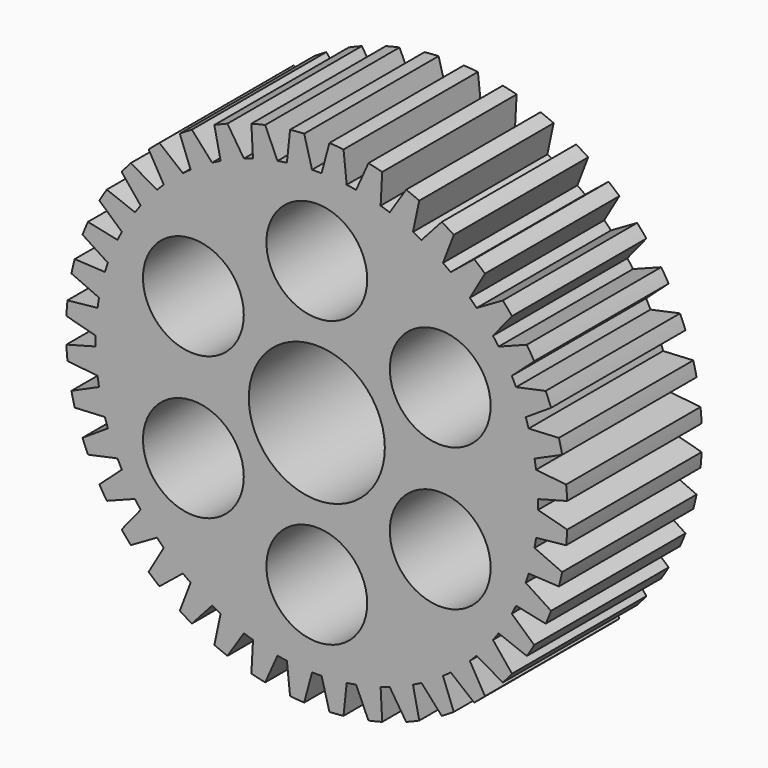
from build123d import *

# Parameters (mm, degrees)
F1_DEPTH = 10
F2_R     = 4.05
F3_DEPTH = 25
F4_R     = 3
F5_DEPTH = 25


with BuildPart() as f1:
    # F0 (on Front) → F1 (new body)
    with BuildSketch(Plane.XZ):
        with BuildLine():
            Line((0.75, 21.737065), (0.284014, 19.997983))
            ThreePointArc((0.284014, 19.997983), (0, 20.001046), (-0.284014, 19.997983))
            Line((-0.284014, 19.997983), (-0.75, 21.737065))
            ThreePointArc((-0.75, 21.737065), (-1.171065, 21.709909), (-1.591194, 21.670862))
            Line((-1.591194, 21.670862), (-1.77939, 19.880295))
            ThreePointArc((-1.77939, 19.880295), (-2.060387, 19.83889), (-2.340426, 19.791435))
            Line((-2.340426, 19.791435), (-3.072727, 21.43621))
            ThreePointArc((-3.072727, 21.43621), (-3.48436, 21.343519), (-3.893208, 21.23923))
            Line((-3.893208, 21.23923), (-3.798981, 19.441267))
            ThreePointArc((-3.798981, 19.441267), (-4.070041, 19.356415), (-4.339208, 19.265737))
            Line((-4.339208, 19.265737), (-5.319793, 20.775704))
            ThreePointArc((-5.319793, 20.775704), (-5.711858, 20.619761), (-6.099358, 20.452798))
            Line((-6.099358, 20.452798), (-5.725028, 18.691712))
            ThreePointArc((-5.725028, 18.691712), (-5.979477, 18.565501), (-6.231145, 18.433832))
            Line((-6.231145, 18.433832), (-7.435868, 19.771812))
            ThreePointArc((-7.435868, 19.771812), (-7.798711, 19.556456), (-8.155322, 19.33093))
            Line((-8.155322, 19.33093), (-7.510105, 17.650084))
            ThreePointArc((-7.510105, 17.650084), (-7.741678, 17.485622), (-7.96965, 17.316205))
            Line((-7.96965, 17.316205), (-9.368847, 18.449252))
            ThreePointArc((-9.368847, 18.449252), (-9.693534, 18.179787), (-10.010474, 17.901251))
            Line((-10.010474, 17.901251), (-9.110259, 16.342033))
            ThreePointArc((-9.110259, 16.342033), (-9.313253, 16.14337), (-9.511916, 15.940376))
            Line((-9.511916, 15.940376), (-11.071134, 16.840591))
            ThreePointArc((-11.071134, 16.840591), (-11.34967, 16.523651), (-11.619136, 16.198964))
            Line((-11.619136, 16.198964), (-10.486088, 14.799767))
            ThreePointArc((-10.486088, 14.799767), (-10.655506, 14.571795), (-10.819967, 14.340222))
            Line((-10.819967, 14.340222), (-12.500814, 14.985438))
            ThreePointArc((-12.500814, 14.985438), (-12.72634, 14.628828), (-12.941695, 14.265985))
            Line((-12.941695, 14.265985), (-11.603715, 13.061262))
            ThreePointArc((-11.603715, 13.061262), (-11.735384, 12.809593), (-11.861595, 12.555144))
            Line((-11.861595, 12.555144), (-13.622681, 12.929475))
            ThreePointArc((-13.622681, 12.929475), (-13.789644, 12.541974), (-13.945588, 12.149909))
            Line((-13.945588, 12.149909), (-12.43562, 11.169325))
            ThreePointArc((-12.43562, 11.169325), (-12.526298, 10.900158), (-12.611151, 10.629097))
            Line((-12.611151, 10.629097), (-14.409113, 10.723325))
            ThreePointArc((-14.409113, 10.723325), (-14.513402, 10.314476), (-14.606093, 9.902843))
            Line((-14.606093, 9.902843), (-12.961319, 9.170543))
            ThreePointArc((-12.961319, 9.170543), (-13.008773, 8.890504), (-13.050178, 8.609507))
            Line((-13.050178, 8.609507), (-14.840745, 8.421311))
            ThreePointArc((-14.840745, 8.421311), (-14.879792, 8.001182), (-14.906948, 7.580117))
            Line((-14.906948, 7.580117), (-13.167867, 7.114131))
            ThreePointArc((-13.167867, 7.114131), (-13.170929, 6.830117), (-13.167867, 6.546102))
            Line((-13.167867, 6.546102), (-14.906948, 6.080117))
            ThreePointArc((-14.906948, 6.080117), (-14.879792, 5.659052), (-14.840745, 5.238922))
            Line((-14.840745, 5.238922), (-13.050178, 5.050726))
            ThreePointArc((-13.050178, 5.050726), (-13.008773, 4.769729), (-12.961319, 4.489691))
            Line((-12.961319, 4.489691), (-14.606093, 3.75739))
            ThreePointArc((-14.606093, 3.75739), (-14.513402, 3.345757), (-14.409113, 2.936909))
            Line((-14.409113, 2.936909), (-12.611151, 3.031136))
            ThreePointArc((-12.611151, 3.031136), (-12.526298, 2.760076), (-12.43562, 2.490908))
            Line((-12.43562, 2.490908), (-13.945588, 1.510324))
            ThreePointArc((-13.945588, 1.510324), (-13.789644, 1.118259), (-13.622681, 0.730759))
            Line((-13.622681, 0.730759), (-11.861595, 1.105089))
            ThreePointArc((-11.861595, 1.105089), (-11.735384, 0.85064), (-11.603715, 0.598972))
            Line((-11.603715, 0.598972), (-12.941695, -0.605751))
            ThreePointArc((-12.941695, -0.605751), (-12.72634, -0.968594), (-12.500814, -1.325205))
            Line((-12.500814, -1.325205), (-10.819967, -0.679989))
            ThreePointArc((-10.819967, -0.679989), (-10.655506, -0.911561), (-10.486088, -1.139534))
            Line((-10.486088, -1.139534), (-11.619136, -2.538731))
            ThreePointArc((-11.619136, -2.538731), (-11.34967, -2.863417), (-11.071134, -3.180358))
            Line((-11.071134, -3.180358), (-9.511916, -2.280143))
            ThreePointArc((-9.511916, -2.280143), (-9.313253, -2.483137), (-9.110259, -2.6818))
            Line((-9.110259, -2.6818), (-10.010474, -4.241018))
            ThreePointArc((-10.010474, -4.241018), (-9.693534, -4.519553), (-9.368847, -4.789019))
            Line((-9.368847, -4.789019), (-7.96965, -3.655972))
            ThreePointArc((-7.96965, -3.655972), (-7.741678, -3.825389), (-7.510105, -3.989851))
            Line((-7.510105, -3.989851), (-8.155322, -5.670697))
            ThreePointArc((-8.155322, -5.670697), (-7.798711, -5.896223), (-7.435868, -6.111579))
            Line((-7.435868, -6.111579), (-6.231145, -4.773599))
            ThreePointArc((-6.231145, -4.773599), (-5.979477, -4.905267), (-5.725028, -5.031478))
            Line((-5.725028, -5.031478), (-6.099358, -6.792565))
            ThreePointArc((-6.099358, -6.792565), (-5.711858, -6.959528), (-5.319793, -7.115471))
            Line((-5.319793, -7.115471), (-4.339208, -5.605503))
            ThreePointArc((-4.339208, -5.605503), (-4.070041, -5.696181), (-3.798981, -5.781034))
            Line((-3.798981, -5.781034), (-3.893208, -7.578997))
            ThreePointArc((-3.893208, -7.578997), (-3.48436, -7.683286), (-3.072727, -7.775977))
            Line((-3.072727, -7.775977), (-2.340426, -6.131202))
            ThreePointArc((-2.340426, -6.131202), (-2.060387, -6.178657), (-1.77939, -6.220061))
            Line((-1.77939, -6.220061), (-1.591194, -8.010628))
            ThreePointArc((-1.591194, -8.010628), (-1.171065, -8.049676), (-0.75, -8.076832))
            Line((-0.75, -8.076832), (-0.284014, -6.33775))
            ThreePointArc((-0.284014, -6.33775), (0, -6.340813), (0.284014, -6.33775))
            Line((0.284014, -6.33775), (0.75, -8.076832))
            ThreePointArc((0.75, -8.076832), (1.171065, -8.049676), (1.591194, -8.010628))
            Line((1.591194, -8.010628), (1.77939, -6.220061))
            ThreePointArc((1.77939, -6.220061), (2.060387, -6.178657), (2.340426, -6.131202))
            Line((2.340426, -6.131202), (3.072727, -7.775977))
            ThreePointArc((3.072727, -7.775977), (3.48436, -7.683286), (3.893208, -7.578997))
            Line((3.893208, -7.578997), (3.798981, -5.781034))
            ThreePointArc((3.798981, -5.781034), (4.070041, -5.696181), (4.339208, -5.605503))
            Line((4.339208, -5.605503), (5.319793, -7.115471))
            ThreePointArc((5.319793, -7.115471), (5.711858, -6.959528), (6.099358, -6.792565))
            Line((6.099358, -6.792565), (5.725028, -5.031478))
            ThreePointArc((5.725028, -5.031478), (5.979477, -4.905267), (6.231145, -4.773599))
            Line((6.231145, -4.773599), (7.435868, -6.111579))
            ThreePointArc((7.435868, -6.111579), (7.798711, -5.896223), (8.155322, -5.670697))
            Line((8.155322, -5.670697), (7.510105, -3.989851))
            ThreePointArc((7.510105, -3.989851), (7.741678, -3.825389), (7.96965, -3.655972))
            Line((7.96965, -3.655972), (9.368847, -4.789019))
            ThreePointArc((9.368847, -4.789019), (9.693534, -4.519553), (10.010474, -4.241018))
            Line((10.010474, -4.241018), (9.110259, -2.6818))
            ThreePointArc((9.110259, -2.6818), (9.313253, -2.483137), (9.511916, -2.280143))
            Line((9.511916, -2.280143), (11.071134, -3.180358))
            ThreePointArc((11.071134, -3.180358), (11.34967, -2.863417), (11.619136, -2.538731))
            Line((11.619136, -2.538731), (10.486088, -1.139534))
            ThreePointArc((10.486088, -1.139534), (10.655506, -0.911561), (10.819967, -0.679989))
            Line((10.819967, -0.679989), (12.500814, -1.325205))
            ThreePointArc((12.500814, -1.325205), (12.72634, -0.968594), (12.941695, -0.605751))
            Line((12.941695, -0.605751), (11.603715, 0.598972))
            ThreePointArc((11.603715, 0.598972), (11.735384, 0.85064), (11.861595, 1.105089))
            Line((11.861595, 1.105089), (13.622681, 0.730759))
            ThreePointArc((13.622681, 0.730759), (13.789644, 1.118259), (13.945588, 1.510324))
            Line((13.945588, 1.510324), (12.43562, 2.490908))
            ThreePointArc((12.43562, 2.490908), (12.526298, 2.760076), (12.611151, 3.031136))
            Line((12.611151, 3.031136), (14.409113, 2.936909))
            ThreePointArc((14.409113, 2.936909), (14.513402, 3.345757), (14.606093, 3.75739))
            Line((14.606093, 3.75739), (12.961319, 4.489691))
            ThreePointArc((12.961319, 4.489691), (13.008773, 4.769729), (13.050178, 5.050726))
            Line((13.050178, 5.050726), (14.840745, 5.238922))
            ThreePointArc((14.840745, 5.238922), (14.879792, 5.659052), (14.906948, 6.080117))
            Line((14.906948, 6.080117), (13.167867, 6.546102))
            ThreePointArc((13.167867, 6.546102), (13.170929, 6.830117), (13.167867, 7.114131))
            Line((13.167867, 7.114131), (14.906948, 7.580117))
            ThreePointArc((14.906948, 7.580117), (14.879792, 8.001182), (14.840745, 8.421311))
            Line((14.840745, 8.421311), (13.050178, 8.609507))
            ThreePointArc((13.050178, 8.609507), (13.008773, 8.890504), (12.961319, 9.170543))
            Line((12.961319, 9.170543), (14.606093, 9.902843))
            ThreePointArc((14.606093, 9.902843), (14.513402, 10.314476), (14.409113, 10.723325))
            Line((14.409113, 10.723325), (12.611151, 10.629097))
            ThreePointArc((12.611151, 10.629097), (12.526298, 10.900158), (12.43562, 11.169325))
            Line((12.43562, 11.169325), (13.945588, 12.149909))
            ThreePointArc((13.945588, 12.149909), (13.789644, 12.541974), (13.622681, 12.929475))
            Line((13.622681, 12.929475), (11.861595, 12.555144))
            ThreePointArc((11.861595, 12.555144), (11.735384, 12.809593), (11.603715, 13.061262))
            Line((11.603715, 13.061262), (12.941695, 14.265985))
            ThreePointArc((12.941695, 14.265985), (12.72634, 14.628828), (12.500814, 14.985438))
            Line((12.500814, 14.985438), (10.819967, 14.340222))
            ThreePointArc((10.819967, 14.340222), (10.655506, 14.571795), (10.486088, 14.799767))
            Line((10.486088, 14.799767), (11.619136, 16.198964))
            ThreePointArc((11.619136, 16.198964), (11.34967, 16.523651), (11.071134, 16.840591))
            Line((11.071134, 16.840591), (9.511916, 15.940376))
            ThreePointArc((9.511916, 15.940376), (9.313253, 16.14337), (9.110259, 16.342033))
            Line((9.110259, 16.342033), (10.010474, 17.901251))
            ThreePointArc((10.010474, 17.901251), (9.693534, 18.179787), (9.368847, 18.449252))
            Line((9.368847, 18.449252), (7.96965, 17.316205))
            ThreePointArc((7.96965, 17.316205), (7.741678, 17.485622), (7.510105, 17.650084))
            Line((7.510105, 17.650084), (8.155322, 19.33093))
            ThreePointArc((8.155322, 19.33093), (7.798711, 19.556456), (7.435868, 19.771812))
            Line((7.435868, 19.771812), (6.231145, 18.433832))
            ThreePointArc((6.231145, 18.433832), (5.979477, 18.565501), (5.725028, 18.691712))
            Line((5.725028, 18.691712), (6.099358, 20.452798))
            ThreePointArc((6.099358, 20.452798), (5.711858, 20.619761), (5.319793, 20.775704))
            Line((5.319793, 20.775704), (4.339208, 19.265737))
            ThreePointArc((4.339208, 19.265737), (4.070041, 19.356415), (3.798981, 19.441267))
            Line((3.798981, 19.441267), (3.893208, 21.23923))
            ThreePointArc((3.893208, 21.23923), (3.48436, 21.343519), (3.072727, 21.43621))
            Line((3.072727, 21.43621), (2.340426, 19.791435))
            ThreePointArc((2.340426, 19.791435), (2.060387, 19.83889), (1.77939, 19.880295))
            Line((1.77939, 19.880295), (1.591194, 21.670862))
            ThreePointArc((1.591194, 21.670862), (1.171065, 21.709909), (0.75, 21.737065))
        make_face()
    extrude(amount=F1_DEPTH)

    # F2 (on face) → F3 (cut)
    with BuildSketch(Plane.XZ.offset(10)):
        with Locations((0, 6.830117)):
            Circle(F2_R)
    extrude(amount=-F3_DEPTH, mode=Mode.SUBTRACT)

    # F4 (on face) → F5 (cut)
    with BuildSketch(Plane.XZ.offset(10)):
        with Locations((0, 15.312858)):
            Circle(F4_R)
        with Locations((-7.346269, 11.071487)):
            Circle(F4_R)
        with Locations((-7.346269, 2.588746)):
            Circle(F4_R)
        with Locations((0, -1.652625)):
            Circle(F4_R)
        with Locations((7.346269, 2.588746)):
            Circle(F4_R)
        with Locations((7.346269, 11.071487)):
            Circle(F4_R)
    extrude(amount=-F5_DEPTH, mode=Mode.SUBTRACT)


solid = f1.part
